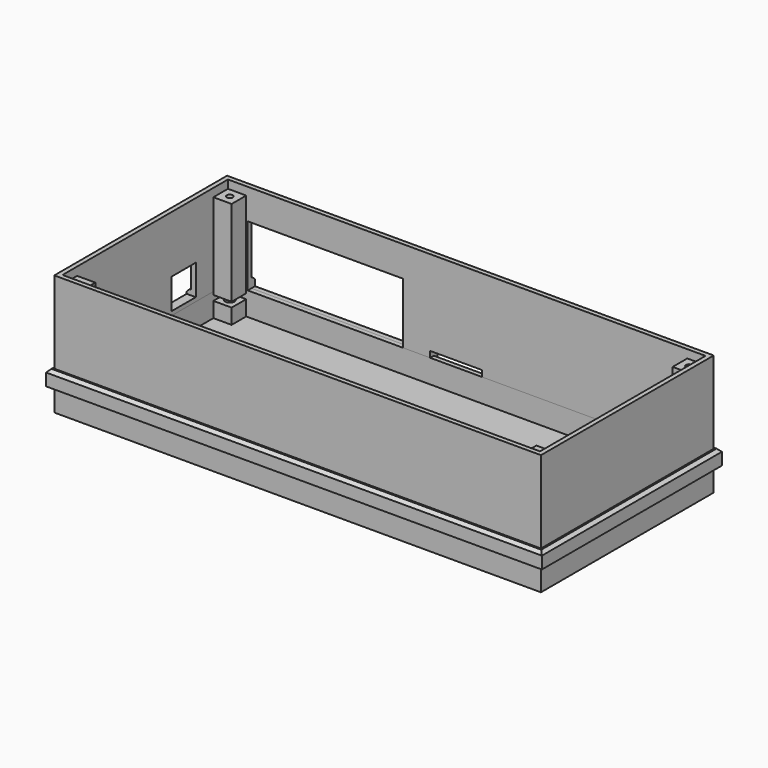
from build123d import *

# Parameters (mm, degrees)
CYLINDER001_R         = 3
CYLINDER001_DEPTH     = 5
CYLINDER002_R         = 3
CYLINDER002_DEPTH     = 5
CYLINDER003_R         = 3
CYLINDER003_DEPTH     = 5
CYLINDER_R            = 3
CYLINDER_DEPTH        = 5
SKETCH002_W           = 6
SKETCH002_H           = 6
EXTRUDE001_DEPTH      = 2.7
SKETCH001_W           = 160
SKETCH001_H           = 71
SKETCH001_R           = 1.5
EXTRUDE_DEPTH         = 7.7
BOX_W                 = 160
BOX_H                 = 71
BOX_DEPTH             = 2
BOX002_W              = 51
BOX002_H              = 20
BOX002_DEPTH          = 3
BOX003_W              = 17
BOX003_H              = 4
BOX003_DEPTH          = 3
SKETCH004_W           = 6
SKETCH004_H           = 6
SKETCH004_R           = 1
EXTRUDE004_DEPTH      = 2.7
BOX001_W              = 10
BOX001_H              = 10
BOX001_DEPTH          = 3
SKETCH005_W           = 163
SKETCH005_H           = 74
SKETCH005_W_2         = 160
SKETCH005_H_2         = 71
EXTRUDE005_DEPTH      = 2
EXTRUDE005_DEPTH_BACK = 3
EXTRUDE003_DEPTH      = 1
SKETCH003_W           = 160
SKETCH003_H           = 71
SKETCH003_R           = 1
EXTRUDE002_DEPTH      = 30
CHAMFER_SIZE          = 0.99


with BuildPart() as case_bottom_left_top_screwhole:
    # Cylinder001 → Cylinder001 (new body)
    with BuildSketch(Plane(origin=(4.5, 66.5, 5), x_dir=(0, -1, 0), z_dir=(0, 0, -1))):
        Circle(CYLINDER001_R)
    extrude(amount=CYLINDER001_DEPTH)


with BuildPart() as case_bottom_right_top_screwhole:
    # Cylinder002 → Cylinder002 (new body)
    with BuildSketch(Plane(origin=(155.5, 66.5, 5), x_dir=(0, -1, 0), z_dir=(0, 0, -1))):
        Circle(CYLINDER002_R)
    extrude(amount=CYLINDER002_DEPTH)


with BuildPart() as case_bottom_right_bottom_screwhole:
    # Cylinder003 → Cylinder003 (new body)
    with BuildSketch(Plane(origin=(155.5, 4.5, 5), x_dir=(0, -1, 0), z_dir=(0, 0, -1))):
        Circle(CYLINDER003_R)
    extrude(amount=CYLINDER003_DEPTH)


with BuildPart() as obj1:
    # Cylinder → Cylinder (new body)
    with BuildSketch(Plane(origin=(4.5, 4.5, 5), x_dir=(0, -1, 0), z_dir=(0, 0, -1))):
        Circle(CYLINDER_R)
    extrude(amount=CYLINDER_DEPTH)

    # Fusion001: union case-bottom-left-top-screwhole, case-bottom-right-top-screwhole, case-bottom-right-bottom-screwhole
    add(case_bottom_left_top_screwhole.part)
    add(case_bottom_right_top_screwhole.part)
    add(case_bottom_right_bottom_screwhole.part)


with BuildPart() as mount_hole_removed:
    # Sketch002 (on Face22 of Extrude) → Extrude001 (new body)
    with BuildSketch(Plane.XY.offset(9.7)):
        with Locations((4.5, 66.5)):
            Rectangle(SKETCH002_W, SKETCH002_H)
        with Locations((155.5, 66.5)):
            Rectangle(SKETCH002_W, SKETCH002_H)
        with Locations((4.5, 4.5)):
            Rectangle(SKETCH002_W, SKETCH002_H)
        with Locations((155.5, 4.5)):
            Rectangle(SKETCH002_W, SKETCH002_H)
    extrude(amount=-EXTRUDE001_DEPTH)


with BuildPart() as obj2:
    # Sketch001 (on Face6 of Box) → Extrude (new body)
    with BuildSketch(Plane.XY.offset(2)):
        with Locations((80, 35.5)):
            Rectangle(SKETCH001_W, SKETCH001_H)
        with Locations((4.5, 66.5)):
            Circle(SKETCH001_R, mode=Mode.SUBTRACT)
        with Locations((155.5, 66.5)):
            Circle(SKETCH001_R, mode=Mode.SUBTRACT)
        with Locations((155.5, 4.5)):
            Circle(SKETCH001_R, mode=Mode.SUBTRACT)
        with Locations((4.5, 4.5)):
            Circle(SKETCH001_R, mode=Mode.SUBTRACT)
        Polygon((152.5, 69.5), (7.5, 69.5), (7.5, 63.5), (1.5, 63.5), (1.5, 7.5), (7.5, 7.5), (7.5, 1.5), (152.5, 1.5), (152.5, 7.5), (158.5, 7.5), (158.5, 63.5), (152.5, 63.5), align=None, mode=Mode.SUBTRACT)
    extrude(amount=EXTRUDE_DEPTH)

    # Cut: cut mount-hole-removed
    add(mount_hole_removed.part, mode=Mode.SUBTRACT)

    # Cut002: cut obj1
    add(obj1.part, mode=Mode.SUBTRACT)


with BuildPart() as case_bottom:
    # Box → Box (new body)
    with BuildSketch(Plane.XY):
        with Locations((80, 35.5)):
            Rectangle(BOX_W, BOX_H)
    extrude(amount=BOX_DEPTH)

    # Cut001: cut obj1
    add(obj1.part, mode=Mode.SUBTRACT)

    # Fusion: union obj2
    add(obj2.part)


with BuildPart() as back_panel_cutout:
    # Box002 → Box002 (new body)
    with BuildSketch(Plane(origin=(59, 69.5, 9.7), x_dir=(-1, 0, 0), z_dir=(0, 1, 0))):
        with Locations((25.5, 10)):
            Rectangle(BOX002_W, BOX002_H)
    extrude(amount=BOX002_DEPTH)


with BuildPart() as ribbon_cable_cutout:
    # Box003 → Box003 (new body)
    with BuildSketch(Plane(origin=(68, 72.5, 7.7), x_dir=(1, 0, 0), z_dir=(0, -1, 0))):
        with Locations((8.5, 2)):
            Rectangle(BOX003_W, BOX003_H)
    extrude(amount=BOX003_DEPTH)


with BuildPart() as obj3:
    # Sketch004 (on Face9 of Fusion) → Extrude004 (new body)
    with BuildSketch(Plane.XY.offset(9.7)):
        with Locations((155.5, 66.5)):
            Rectangle(SKETCH004_W, SKETCH004_H)
        with Locations((155.5, 66.5)):
            Circle(SKETCH004_R, mode=Mode.SUBTRACT)
        with Locations((155.5, 4.5)):
            Rectangle(SKETCH004_W, SKETCH004_H)
        with Locations((155.5, 4.5)):
            Circle(SKETCH004_R, mode=Mode.SUBTRACT)
        with Locations((4.5, 66.5)):
            Rectangle(SKETCH004_W, SKETCH004_H)
        with Locations((4.5, 66.5)):
            Circle(SKETCH004_R, mode=Mode.SUBTRACT)
        with Locations((4.5, 4.5)):
            Rectangle(SKETCH004_W, SKETCH004_H)
        with Locations((4.5, 4.5)):
            Circle(SKETCH004_R, mode=Mode.SUBTRACT)
    extrude(amount=-EXTRUDE004_DEPTH)


with BuildPart() as obj3_1:
    # Extrude004 placement: moved
    add(obj3.part.moved(Location((0, 0, 30))))


with BuildPart() as top_wall_cutouts:
    # Box001 → Box001 (new body)
    with BuildSketch(Plane(origin=(1.5, 56.28, 11), x_dir=(0, -1, 0), z_dir=(-1, 0, 0))):
        with Locations((5, 5)):
            Rectangle(BOX001_W, BOX001_H)
    extrude(amount=BOX001_DEPTH)

    # Fusion002: union back-panel-cutout, ribbon-cable-cutout, obj3
    add(back_panel_cutout.part)
    add(ribbon_cable_cutout.part)
    add(obj3_1.part)


with BuildPart() as top_wall_surround:
    # Sketch005 → Extrude005 (new body, two sides)
    with BuildSketch(Plane(origin=(0, 0, 9.7), x_dir=(1, 0, 0), z_dir=(0, 0, -1))) as extrude005_sk:
        with Locations((80, -35.5)):
            Rectangle(SKETCH005_W, SKETCH005_H)
        with Locations((80, -35.5)):
            Rectangle(SKETCH005_W_2, SKETCH005_H_2, mode=Mode.SUBTRACT)
    extrude(amount=EXTRUDE005_DEPTH)
    extrude(extrude005_sk.sketch, amount=-EXTRUDE005_DEPTH_BACK)


with BuildPart() as top_walls_protrusion:
    # Sketch004 (on Face9 of Fusion) → Extrude003 (new body)
    with BuildSketch(Plane.XY.offset(9.7)):
        with Locations((155.5, 66.5)):
            Rectangle(SKETCH004_W, SKETCH004_H)
        with Locations((155.5, 66.5)):
            Circle(SKETCH004_R, mode=Mode.SUBTRACT)
        with Locations((155.5, 4.5)):
            Rectangle(SKETCH004_W, SKETCH004_H)
        with Locations((155.5, 4.5)):
            Circle(SKETCH004_R, mode=Mode.SUBTRACT)
        with Locations((4.5, 66.5)):
            Rectangle(SKETCH004_W, SKETCH004_H)
        with Locations((4.5, 66.5)):
            Circle(SKETCH004_R, mode=Mode.SUBTRACT)
        with Locations((4.5, 4.5)):
            Rectangle(SKETCH004_W, SKETCH004_H)
        with Locations((4.5, 4.5)):
            Circle(SKETCH004_R, mode=Mode.SUBTRACT)
    extrude(amount=-EXTRUDE003_DEPTH)


with BuildPart() as top_wall:
    # Sketch003 (on Face9 of Fusion) → Extrude002 (new body)
    with BuildSketch(Plane.XY.offset(9.7)):
        with Locations((80, 35.5)):
            Rectangle(SKETCH003_W, SKETCH003_H)
        with Locations((4.5, 66.5)):
            Circle(SKETCH003_R, mode=Mode.SUBTRACT)
        with Locations((155.5, 66.5)):
            Circle(SKETCH003_R, mode=Mode.SUBTRACT)
        with Locations((155.5, 4.5)):
            Circle(SKETCH003_R, mode=Mode.SUBTRACT)
        with Locations((4.5, 4.5)):
            Circle(SKETCH003_R, mode=Mode.SUBTRACT)
        Polygon((152.5, 69.5), (7.5, 69.5), (7.5, 63.5), (1.5, 63.5), (1.5, 7.5), (7.5, 7.5), (7.5, 1.5), (152.5, 1.5), (152.5, 7.5), (158.5, 7.5), (158.5, 63.5), (152.5, 63.5), align=None, mode=Mode.SUBTRACT)
    extrude(amount=EXTRUDE002_DEPTH)

    # Fusion004: union top-wall-surround, top-walls-protrusion
    add(top_wall_surround.part)
    add(top_walls_protrusion.part)

    # Cut003: cut top-wall-cutouts
    add(top_wall_cutouts.part, mode=Mode.SUBTRACT)

    # Chamfer
    chamfer_edges = [top_wall.edges().sort_by_distance(p)[0] for p in [
        (110.25, 72.5, 12.7),
        (161.5, 35.5, 12.7),
        (80, -1.5, 12.7),
        (-1.5, 22.39, 12.7),
        (3.25, 72.5, 12.7),
        (-1.5, 64.39, 12.7),
    ]]
    chamfer(chamfer_edges, length=CHAMFER_SIZE)


solid = Compound([case_bottom.part, top_wall.part])
